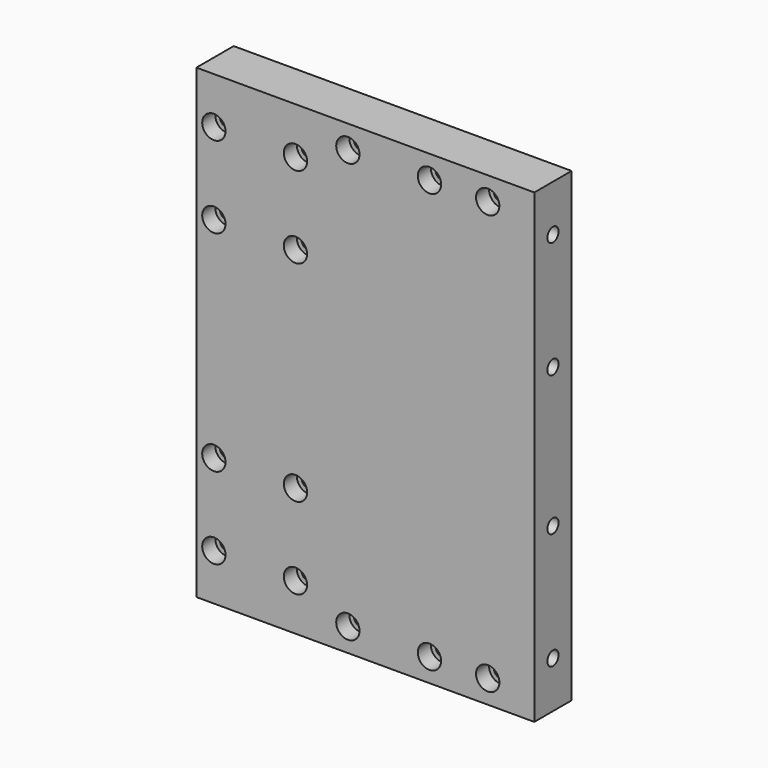
from build123d import *

# Parameters (mm, degrees)
F0_W     = 145
F0_H     = 200
F0_R     = 3
F1_DEPTH = 20
F2_R     = 5
F3_DEPTH = 7
F4_R     = 3
F5_DEPTH = 30
F6_R     = 3
F7_DEPTH = 20
F8_R     = 5
F9_DEPTH = 7


with BuildPart() as f1:
    # F0 (on Front) → F1 (new body)
    with BuildSketch(Plane.XZ):
        with Locations((72.5, 100)):
            Rectangle(F0_W, F0_H)
        with Locations((7.5, 20)):
            Circle(F0_R, mode=Mode.SUBTRACT)
        with Locations((42.5, 20)):
            Circle(F0_R, mode=Mode.SUBTRACT)
        with Locations((7.5, 55)):
            Circle(F0_R, mode=Mode.SUBTRACT)
        with Locations((42.5, 55)):
            Circle(F0_R, mode=Mode.SUBTRACT)
        with Locations((7.5, 145)):
            Circle(F0_R, mode=Mode.SUBTRACT)
        with Locations((42.5, 145)):
            Circle(F0_R, mode=Mode.SUBTRACT)
        with Locations((7.5, 180)):
            Circle(F0_R, mode=Mode.SUBTRACT)
        with Locations((42.5, 180)):
            Circle(F0_R, mode=Mode.SUBTRACT)
    extrude(amount=F1_DEPTH)

    # F2 (on face) → F3 (cut)
    with BuildSketch(Plane.XZ.offset(20)):
        with Locations((7.5, 180)):
            Circle(F2_R)
        with Locations((42.5, 180)):
            Circle(F2_R)
        with Locations((7.5, 145)):
            Circle(F2_R)
        with Locations((42.5, 145)):
            Circle(F2_R)
        with Locations((7.5, 55)):
            Circle(F2_R)
        with Locations((42.5, 55)):
            Circle(F2_R)
        with Locations((7.5, 20)):
            Circle(F2_R)
        with Locations((42.5, 20)):
            Circle(F2_R)
    extrude(amount=-F3_DEPTH, mode=Mode.SUBTRACT)

    # F4 (on face) → F5 (cut)
    with BuildSketch(Plane.YZ.offset(145)):
        with Locations((-10, 20)):
            Circle(F4_R)
        with Locations((-10, 70)):
            Circle(F4_R)
        with Locations((-10, 130)):
            Circle(F4_R)
        with Locations((-10, 180)):
            Circle(F4_R)
    extrude(amount=-F5_DEPTH, mode=Mode.SUBTRACT)

    # F6 (on face) → F7 (cut)
    with BuildSketch(Plane.XZ.offset(20)):
        with Locations((125, 190)):
            Circle(F6_R)
        with Locations((100, 190)):
            Circle(F6_R)
        with Locations((65, 190)):
            Circle(F6_R)
        with Locations((125, 10)):
            Circle(F6_R)
        with Locations((100, 10)):
            Circle(F6_R)
        with Locations((65, 10)):
            Circle(F6_R)
    extrude(amount=-F7_DEPTH, mode=Mode.SUBTRACT)

    # F8 (on face) → F9 (cut)
    with BuildSketch(Plane.XZ.offset(20)):
        with Locations((65, 190)):
            Circle(F8_R)
        with Locations((100, 190)):
            Circle(F8_R)
        with Locations((125, 190)):
            Circle(F8_R)
        with Locations((65, 10)):
            Circle(F8_R)
        with Locations((100, 10)):
            Circle(F8_R)
        with Locations((125, 10)):
            Circle(F8_R)
    extrude(amount=-F9_DEPTH, mode=Mode.SUBTRACT)


solid = f1.part
